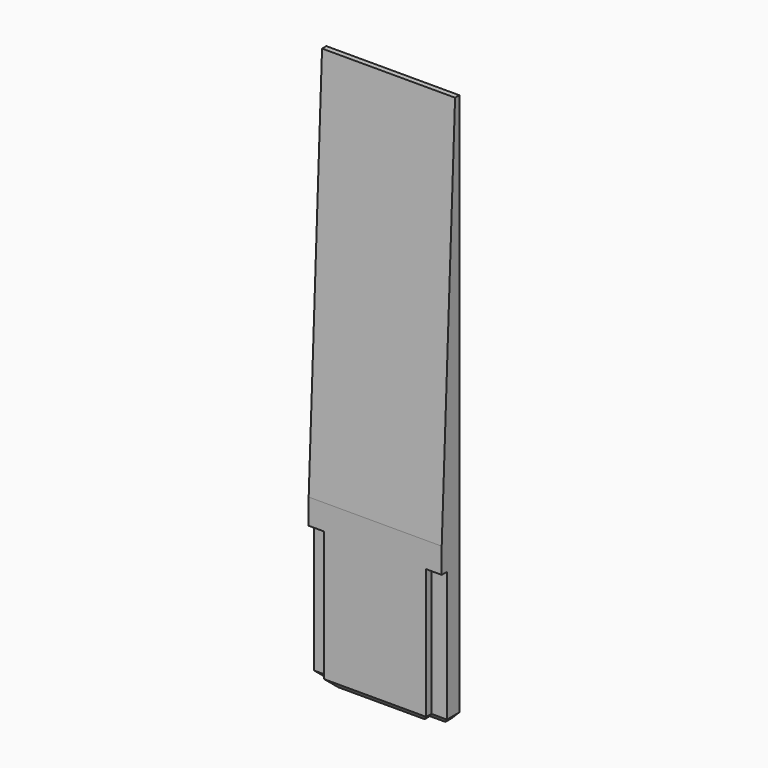
from build123d import *

# Parameters (mm, degrees)
PAD003_DEPTH    = 1.42
POCKET004_DEPTH = 8.875
POCKET005_DEPTH = 8.570714
CHAMFER002_SIZE = 0.5


with BuildPart() as part:
    # Sketch010 → Pad003 (new body)
    with BuildSketch(Plane.XZ):
        Polygon((-4.284857, 0), (4.284857, 0), (4.284857, 8.875), (4.284857, 35.5), (-4.284857, 35.5), (-4.284857, 8.875), align=None)
    extrude(amount=PAD003_DEPTH)

    # Sketch011 (on Face1 of Pad003) → Pocket004 (cut)
    with BuildSketch(Plane(origin=(0, 0, 0), x_dir=(1, 0, 0), z_dir=(0, 0, -1))):
        Polygon((-3.284857, 1.42), (-3.284857, 1), (-8.284857, 1), (-8.284857, 4.921038), align=None)
        Polygon((8.284857, 4.921038), (3.284857, 1.42), (3.284857, 1), (8.284857, 1), align=None)
    extrude(amount=-POCKET004_DEPTH, mode=Mode.SUBTRACT)

    # Sketch012 (on Face9 of Pocket004) → Pocket005 (cut, through all)
    with BuildSketch(Plane(origin=(-4.284857, 0, 0), x_dir=(0, 0, -1), z_dir=(-1, 0, 0))):
        Polygon((-39.051991, 0.19), (-10.038814, 1.44), (-39.051991, 14.02), align=None)
    extrude(amount=-POCKET005_DEPTH, mode=Mode.SUBTRACT)

    # Chamfer002
    chamfer002_edges = [part.edges().sort_by_distance(p)[0] for p in [
        (-3.784857, -1, 0),
        (-3.284857, -1.21, 0),
        (0, -1.42, 0),
        (3.284857, -1.21, 0),
        (3.784857, -1, 0),
        (-4.284857, -0.5, 0),
        (4.284857, -0.5, 0),
    ]]
    chamfer(chamfer002_edges, length=CHAMFER002_SIZE)


with BuildPart() as part_1:
    # Body001 placement: moved
    add(part.part.moved(Location((0, 25, 0))))


solid = part_1.part
